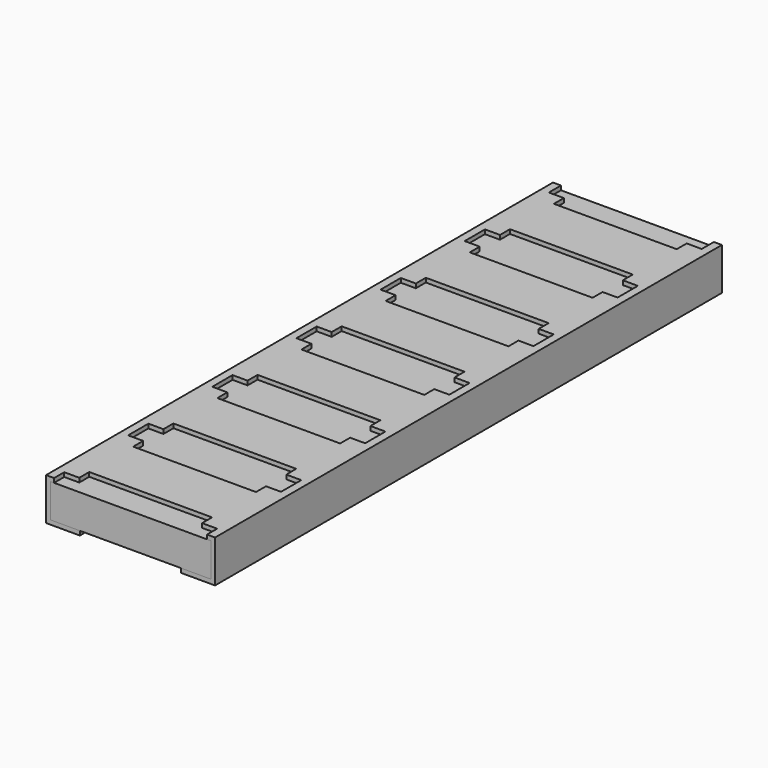
from build123d import *

# Parameters (mm, degrees)
PAD_DEPTH           = 3.75
POCKET_DEPTH        = 0.055
LINEARPATTERN_COUNT = 7
LINEARPATTERN_PITCH = 1.245
SKETCH002_W         = 1.9
SKETCH002_H         = 0.4
PAD001_DEPTH        = 3.75


with BuildPart() as metalfilm:
    # Sketch → Pad (new body, symmetric)
    with BuildSketch(Plane.XZ):
        Polygon((-1, 0.5), (1, 0.5), (1, 0), (0.6, 0), (0.6, 0.05), (0.95, 0.05), (0.95, 0.45), (-0.95, 0.45), (-0.95, 0.05), (-0.6, 0.05), (-0.6, 0), (-1, 0), align=None)
    extrude(amount=PAD_DEPTH, both=True)

    # Sketch001 → Pocket (cut)
    with BuildSketch(Plane.XY.offset(0.5)):
        Polygon((-0.905, -3.6), (-0.727, -3.6), (-0.727, -3.4525), (0.727, -3.4525), (0.727, -3.6), (0.905, -3.6), (0.905, -3.9), (0.727, -3.9), (0.727, -4.0475), (-0.727, -4.0475), (-0.727, -3.9), (-0.905, -3.9), align=None)
    pocket = extrude(amount=-POCKET_DEPTH, mode=Mode.SUBTRACT)

    # LinearPattern: Pocket ×7
    with Locations(*[(0, i * LINEARPATTERN_PITCH, 0) for i in range(1, LINEARPATTERN_COUNT)]):
        add(pocket, mode=Mode.SUBTRACT)


with BuildPart() as ceramicbody:
    # Sketch002 → Pad001 (new body, symmetric)
    with BuildSketch(Plane.XZ):
        with Locations((0, 0.25)):
            Rectangle(SKETCH002_W, SKETCH002_H)
    extrude(amount=PAD001_DEPTH, both=True)


solid = Compound([metalfilm.part, ceramicbody.part])
